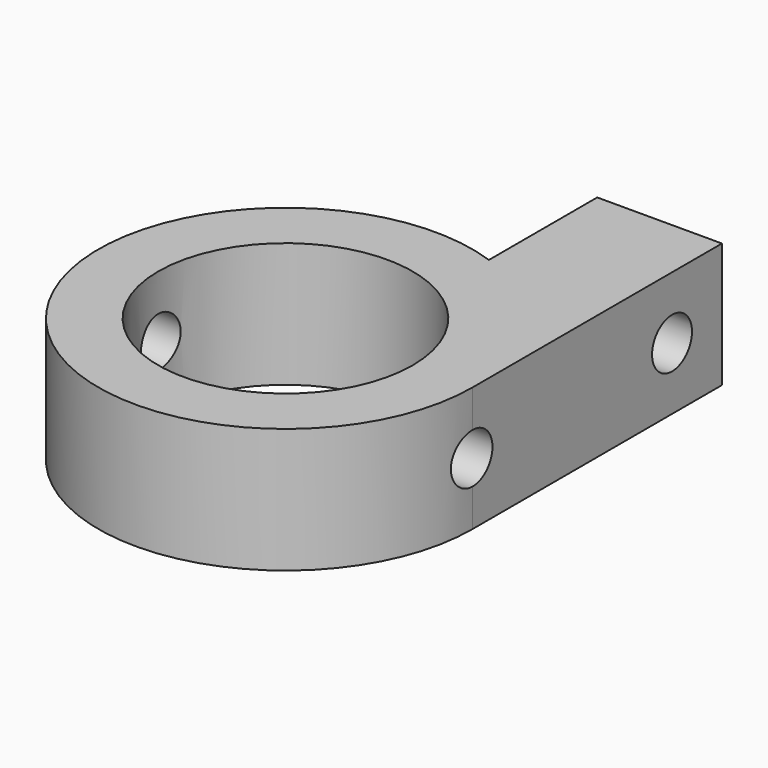
from build123d import *

# Parameters (mm, degrees)
CYLINDER003_R     = 2
CYLINDER003_DEPTH = 10
CYLINDER004_R     = 2
CYLINDER004_DEPTH = 30
CYLINDER001_R     = 10.2
CYLINDER001_DEPTH = 10
BOX_W             = 10
BOX_H             = 25
BOX_DEPTH         = 10
CYLINDER_R        = 15
CYLINDER_DEPTH    = 10


with BuildPart() as cylinder003:
    # Cylinder003 → Cylinder003 (new body)
    with BuildSketch(Plane(origin=(15, 20, 0), x_dir=(0, 0, 1), z_dir=(-1, 0, 0))):
        Circle(CYLINDER003_R)
    extrude(amount=CYLINDER003_DEPTH)


with BuildPart() as cylinder004:
    # Cylinder004 → Cylinder004 (new body)
    with BuildSketch(Plane.ZY.offset(-15)):
        Circle(CYLINDER004_R)
    extrude(amount=CYLINDER004_DEPTH)


with BuildPart() as negative_fusion:
    # Cylinder001 → Cylinder001 (new body)
    with BuildSketch(Plane.XY.offset(-5)):
        Circle(CYLINDER001_R)
    extrude(amount=CYLINDER001_DEPTH)

    # Fusion: union Cylinder003, Cylinder004
    add(cylinder003.part)
    add(cylinder004.part)


with BuildPart() as cube:
    # Box → Box (new body)
    with BuildSketch(Plane(origin=(5, 0, -5), x_dir=(1, 0, 0), z_dir=(0, 0, 1))):
        with Locations((5, 12.5)):
            Rectangle(BOX_W, BOX_H)
    extrude(amount=BOX_DEPTH)


with BuildPart() as cut:
    # Cylinder → Cylinder (new body)
    with BuildSketch(Plane.XY.offset(-5)):
        Circle(CYLINDER_R)
    extrude(amount=CYLINDER_DEPTH)

    # Fusion001: union Cube
    add(cube.part)

    # Cut: cut Negative Fusion
    add(negative_fusion.part, mode=Mode.SUBTRACT)


solid = cut.part
